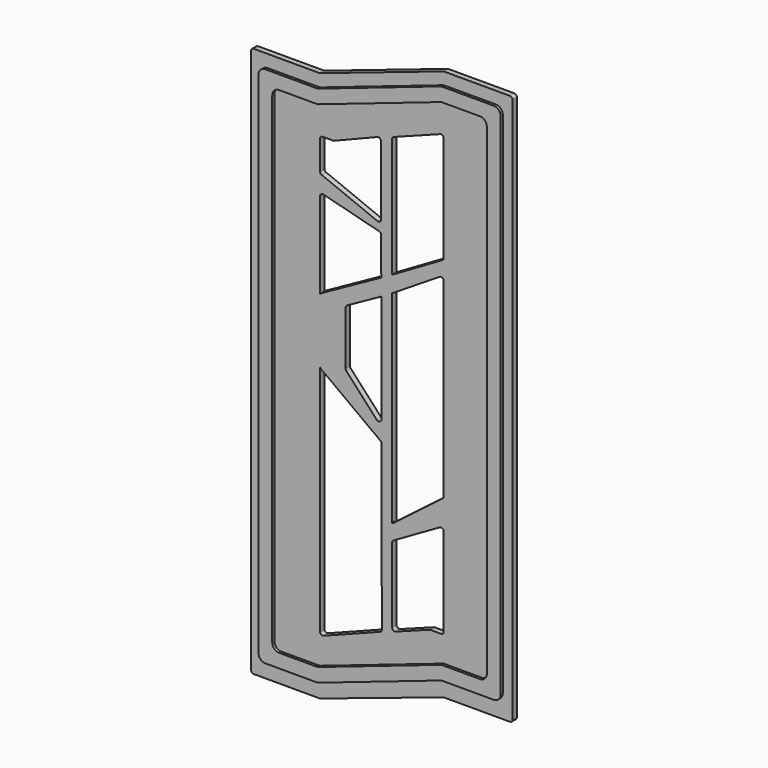
from build123d import *

# Parameters (mm, degrees)
F1_DEPTH = 4
F3_DEPTH = 6


with BuildPart() as f1:
    # F0 (on Front) → F1 (new body)
    with BuildSketch(Plane.XZ):
        with BuildLine():
            ThreePointArc((0.311493, 77.652204), (-0.004355, 77.573432), (-0.328798, 77.54694))
            Line((-0.328798, 77.54694), (-48, 77.54694))
            ThreePointArc((-48, 77.54694), (-49.414214, 76.961154), (-50, 75.54694))
            Line((-50, 75.54694), (-50, -320.45306))
            ThreePointArc((-50, -320.45306), (-49.414214, -321.867273), (-48, -322.45306))
            Line((-48, -322.45306), (-0.324555, -322.45306))
            ThreePointArc((-0.324555, -322.45306), (-0.004191, -322.427235), (0.3079, -322.350426))
            Line((0.3079, -322.350426), (89.6921, -292.555693))
            ThreePointArc((89.6921, -292.555693), (90.004191, -292.478885), (90.324555, -292.45306))
            Line((90.324555, -292.45306), (138, -292.45306))
            ThreePointArc((138, -292.45306), (139.414214, -291.867273), (140, -290.45306))
            Line((140, -290.45306), (140, 105.960753))
            ThreePointArc((140, 105.960753), (139.414214, 107.374967), (138, 107.960753))
            Line((138, 107.960753), (90.328798, 107.960753))
            ThreePointArc((90.328798, 107.960753), (90.004355, 107.934262), (89.688507, 107.85549))
            Line((89.688507, 107.85549), (0.311493, 77.652204))
        make_face()
        with BuildLine():
            ThreePointArc((0.08659, 34.963099), (0.392042, 36.736965), (1.999475, 37.54694))
            Line((1.999475, 37.54694), (9.632653, 37.54694))
            ThreePointArc((9.632653, 37.54694), (9.993956, 37.579846), (10.34337, 37.67748))
            Line((10.34337, 37.67748), (41.702027, 50.270872))
            ThreePointArc((41.702027, 50.270872), (43.567476, 50.071842), (44.447355, 48.414939))
            Line((44.447355, 48.414939), (44.531555, 2.188108))
            Line((44.531555, 2.188108), (44.538406, -1.573441))
            Line((44.538406, -1.573441), (44.55651, -11.512594))
            Line((44.55651, -11.512594), (44.567509, -17.551468))
            Line((44.567509, -17.551468), (44.603887, -37.523114))
            Line((44.603887, -37.523114), (44.603911, -37.536671))
            Line((44.603911, -37.536671), (44.606063, -38.717808))
            Line((44.606063, -38.717808), (44.628078, -50.804465))
            Line((44.628078, -50.804465), (44.634246, -54.191019))
            Line((44.634246, -54.191019), (44.771094, -129.322448))
            Line((44.771094, -129.322448), (44.799309, -144.812723))
            Line((44.799309, -144.812723), (44.806541, -148.783601))
            Line((44.806541, -148.783601), (44.892246, -195.836749))
            Line((44.892246, -195.836749), (44.951897, -228.585603))
            Line((44.951897, -228.585603), (44.952764, -229.062129))
            Line((44.952764, -229.062129), (44.956313, -231.010533))
            Line((44.956313, -231.010533), (44.957229, -231.513005))
            Line((44.957229, -231.513005), (45.015878, -263.712596))
            ThreePointArc((45.015878, -263.712596), (44.666439, -264.84569), (43.736825, -265.581779))
            Line((43.736825, -265.581779), (2.702247, -281.439717))
            ThreePointArc((2.702247, -281.439717), (1.115069, -281.36063), (0.08659, -280.149176))
            Line((0.08659, -280.149176), (0.08659, -213.666722))
            Line((0.08659, -213.666722), (0.08659, -213.666518))
            Line((0.08659, -213.666518), (0.08659, -109.831086))
            Line((0.08659, -109.831086), (0.08659, -64.548373))
            Line((0.08659, -64.548373), (0.08659, -3.747635))
            Line((0.08659, -3.747635), (0.08659, -1.128253))
            Line((0.08659, -1.128253), (0.08659, 14.797802))
            Line((0.08659, 14.797802), (0.08659, 18.424725))
            Line((0.08659, 18.424725), (0.08659, 34.963099))
        make_face(mode=Mode.SUBTRACT)
        with BuildLine():
            ThreePointArc((90, -250.45306), (89.414214, -251.867273), (88, -252.45306))
            Line((88, -252.45306), (80.362669, -252.45306))
            ThreePointArc((80.362669, -252.45306), (80.00582, -252.485153), (79.660422, -252.580401))
            Line((79.660422, -252.580401), (55.136718, -261.70943))
            ThreePointArc((55.136718, -261.70943), (53.302525, -261.471919), (52.447355, -259.831991))
            Line((52.447355, -259.831991), (52.447355, -208.675399))
            Line((52.447355, -208.675399), (52.447355, -205.710266))
            Line((52.447355, -205.710266), (52.447355, -192.655353))
            Line((52.447355, -192.655353), (52.447355, -191.636056))
            Line((52.447355, -191.636056), (52.447355, -46.193009))
            Line((52.447355, -46.193009), (52.447355, -34.354303))
            Line((52.447355, -34.354303), (52.447355, 52.370707))
            ThreePointArc((52.447355, 52.370707), (52.799274, 53.503769), (53.731183, 54.238084))
            Line((53.731183, 54.238084), (87.289282, 66.930212))
            ThreePointArc((87.289282, 66.930212), (89.135466, 66.707178), (90, 65.060752))
            Line((90, 65.060752), (90, -10.053347))
            Line((90, -10.053347), (90, -11.364244))
            Line((90, -11.364244), (90, -26.140187))
            Line((90, -26.140187), (90, -29.092925))
            Line((90, -29.092925), (90, -158.712357))
            Line((90, -158.712357), (90, -163.930135))
            Line((90, -163.930135), (90, -186.452676))
            Line((90, -186.452676), (90, -189.093262))
            Line((90, -189.093262), (90, -250.45306))
        make_face(mode=Mode.SUBTRACT)
        with BuildLine():
            ThreePointArc((86.933276, -24.448412), (88.966062, -24.38898), (90, -26.140187))
            Line((90, -26.140187), (90, -11.364244))
            ThreePointArc((90, -11.364244), (89.733629, -12.361506), (89.005469, -13.093126))
            Line((89.005469, -13.093126), (52.447355, -34.354303))
            Line((52.447355, -34.354303), (52.447355, -46.193009))
            Line((52.447355, -46.193009), (86.933276, -24.448412))
        make_face()
        with BuildLine():
            ThreePointArc((1.336144, 12.943933), (0.428143, 13.679967), (0.08659, 14.797802))
            Line((0.08659, 14.797802), (0.08659, -1.128253))
            ThreePointArc((0.08659, -1.128253), (0.860722, 0.452015), (2.583838, 0.808947))
            Line((2.583838, 0.808947), (43.053761, -9.579037))
            ThreePointArc((43.053761, -9.579037), (44.135664, -10.288931), (44.55651, -11.512594))
            Line((44.55651, -11.512594), (44.538406, -1.573441))
            ThreePointArc((44.538406, -1.573441), (43.657754, -3.234512), (41.787964, -3.430953))
            Line((41.787964, -3.430953), (1.336144, 12.943933))
        make_face()
        with BuildLine():
            ThreePointArc((1.117742, -62.798706), (0.363555, -63.532917), (0.08659, -64.548373))
            Line((0.08659, -64.548373), (0.08659, -109.831086))
            ThreePointArc((0.08659, -109.831086), (0.30142, -110.732846), (0.89976, -111.44088))
            Line((0.89976, -111.44088), (43.986142, -143.206573))
            ThreePointArc((43.986142, -143.206573), (44.583659, -143.912981), (44.799309, -144.812723))
            Line((44.799309, -144.812723), (44.771094, -129.322448))
            ThreePointArc((44.771094, -129.322448), (43.498808, -131.189002), (41.298194, -130.679071))
            Line((41.298194, -130.679071), (19.18674, -106.607738))
            ThreePointArc((19.18674, -106.607738), (18.796071, -105.980772), (18.659644, -105.254758))
            Line((18.659644, -105.254758), (18.659644, -66.362716))
            ThreePointArc((18.659644, -66.362716), (18.936609, -65.347259), (19.690796, -64.613049))
            Line((19.690796, -64.613049), (44.628078, -50.804465))
            Line((44.628078, -50.804465), (44.606063, -38.717808))
            Line((44.606063, -38.717808), (1.117742, -62.798706))
        make_face()
        with BuildLine():
            ThreePointArc((87.004425, -184.718078), (89.00221, -184.721903), (90, -186.452676))
            Line((90, -186.452676), (90, -163.930135))
            ThreePointArc((90, -163.930135), (89.792549, -164.817134), (89.213233, -165.520124))
            Line((89.213233, -165.520124), (53.189984, -193.007491))
            ThreePointArc((53.189984, -193.007491), (52.707297, -193.066297), (52.447355, -192.655353))
            Line((52.447355, -192.655353), (52.447355, -205.710266))
            ThreePointArc((52.447355, -205.710266), (52.716582, -204.708056), (53.45178, -203.975668))
            Line((53.45178, -203.975668), (87.004425, -184.718078))
        make_face()
    extrude(amount=F1_DEPTH)

    # F2 (on face) → F3 (join)
    with BuildSketch(Plane.XZ):
        with BuildLine():
            Line((132.914576, -275.868222), (132.914576, 94.131778))
            ThreePointArc((132.914576, 94.131778), (131.45011, 97.667312), (127.914576, 99.131778))
            Line((127.914576, 99.131778), (90.743754, 99.131778))
            ThreePointArc((90.743754, 99.131778), (89.925748, 99.064411), (89.129784, 98.864124))
            Line((89.129784, 98.864124), (0.784792, 68.733994))
            ThreePointArc((0.784792, 68.733994), (-0.011172, 68.533708), (-0.829178, 68.46634))
            Line((-0.829178, 68.46634), (-38, 68.46634))
            ThreePointArc((-38, 68.46634), (-41.535534, 67.001874), (-43, 63.46634))
            Line((-43, 63.46634), (-43, -306.53366))
            ThreePointArc((-43, -306.53366), (-41.535534, -310.069194), (-38, -311.53366))
            Line((-38, -311.53366), (-0.829178, -311.53366))
            ThreePointArc((-0.829178, -311.53366), (-0.011172, -311.466292), (0.784792, -311.266006))
            Line((0.784792, -311.266006), (89.129784, -281.135876))
            ThreePointArc((89.129784, -281.135876), (89.925748, -280.935589), (90.743754, -280.868222))
            Line((90.743754, -280.868222), (127.914576, -280.868222))
            ThreePointArc((127.914576, -280.868222), (131.45011, -279.403756), (132.914576, -275.868222))
        make_face()
        with BuildLine():
            ThreePointArc((122.914576, -265.868222), (121.45011, -269.403756), (117.914576, -270.868222))
            Line((117.914576, -270.868222), (90.743754, -270.868222))
            ThreePointArc((90.743754, -270.868222), (89.925748, -270.935589), (89.129784, -271.135876))
            Line((89.129784, -271.135876), (0.784792, -301.266006))
            ThreePointArc((0.784792, -301.266006), (-0.011172, -301.466292), (-0.829178, -301.53366))
            Line((-0.829178, -301.53366), (-28, -301.53366))
            ThreePointArc((-28, -301.53366), (-31.535534, -300.069194), (-33, -296.53366))
            Line((-33, -296.53366), (-33, 53.46634))
            ThreePointArc((-33, 53.46634), (-31.535534, 57.001874), (-28, 58.46634))
            Line((-28, 58.46634), (-0.829178, 58.46634))
            ThreePointArc((-0.829178, 58.46634), (-0.011172, 58.533708), (0.784792, 58.733994))
            Line((0.784792, 58.733994), (89.129784, 88.864124))
            ThreePointArc((89.129784, 88.864124), (89.925748, 89.064411), (90.743754, 89.131778))
            Line((90.743754, 89.131778), (117.914576, 89.131778))
            ThreePointArc((117.914576, 89.131778), (121.45011, 87.667312), (122.914576, 84.131778))
            Line((122.914576, 84.131778), (122.914576, -265.868222))
        make_face(mode=Mode.SUBTRACT)
    extrude(amount=F3_DEPTH)


solid = f1.part
